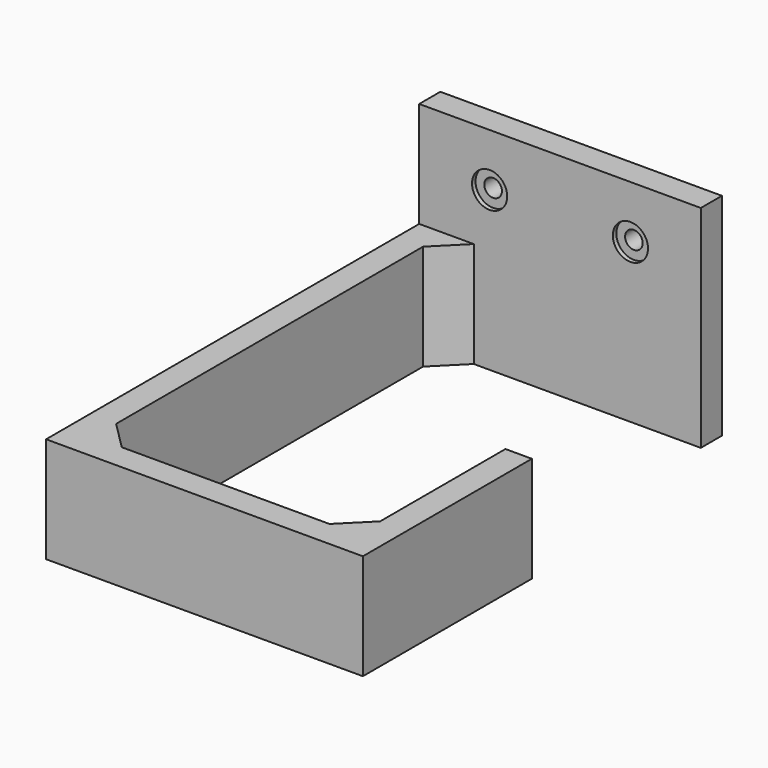
from build123d import *

# Parameters (mm, degrees)
F0_W     = 4.7625
F0_H     = 33.3375
F1_DEPTH = 19.05
F2_SIZE  = 5.08
F3_DEPTH = 38.1
F4_R     = 3.175
F4_R_2   = 1.5875
F5_DEPTH = 0.79375
F6_DEPTH = 4.7625


with BuildPart() as f1:
    # F0 (on Top) → F1 (new body)
    with BuildSketch(Plane.XY):
        Polygon((-25.4, 30.1625), (-25.4, 25.4), (-20.6375, 25.4), (25.4, 25.4), (25.4, 30.1625), align=None)
        Polygon((-20.6375, 25.4), (-25.4, 25.4), (-25.4, -58.7375), (-20.6375, -58.7375), (-20.6375, -53.975), align=None)
        Polygon((26.9875, -53.975), (-20.6375, -53.975), (-20.6375, -58.7375), (31.75, -58.7375), (31.75, -53.975), align=None)
        with Locations((29.36875, -37.30625)):
            Rectangle(F0_W, F0_H)
    extrude(amount=F1_DEPTH)

    # F2
    f2_edges = [f1.edges().sort_by_distance(p)[0] for p in [
        (-20.6375, -53.975, 9.525),
        (-20.6375, 25.4, 9.525),
        (26.9875, -53.975, 9.525),
    ]]
    chamfer(f2_edges, length=F2_SIZE)

    # F0 (on Top) → F3 (join)
    with BuildSketch(Plane.XY):
        Polygon((-25.4, 30.1625), (-25.4, 25.4), (-20.6375, 25.4), (25.4, 25.4), (25.4, 30.1625), align=None)
    extrude(amount=F3_DEPTH)

    # F4 (on face) → F5 (cut)
    with BuildSketch(Plane.XZ.offset(-25.4)):
        with Locations((-12.7, 28.575)):
            Circle(F4_R)
        with Locations((-12.7, 28.575)):
            Circle(F4_R_2, mode=Mode.SUBTRACT)
        with Locations((12.7, 28.575)):
            Circle(F4_R)
        with Locations((12.7, 28.575)):
            Circle(F4_R_2, mode=Mode.SUBTRACT)
    extrude(amount=-F5_DEPTH, mode=Mode.SUBTRACT)

    # F6 (cut, through all): faces of the model
    f6_faces = [f1.faces().sort_by_distance(p)[0] for p in [
        (-12.7, 25.4, 28.575),
        (12.7, 25.4, 28.575),
    ]]
    extrude(f6_faces, amount=-F6_DEPTH, mode=Mode.SUBTRACT)


solid = f1.part
